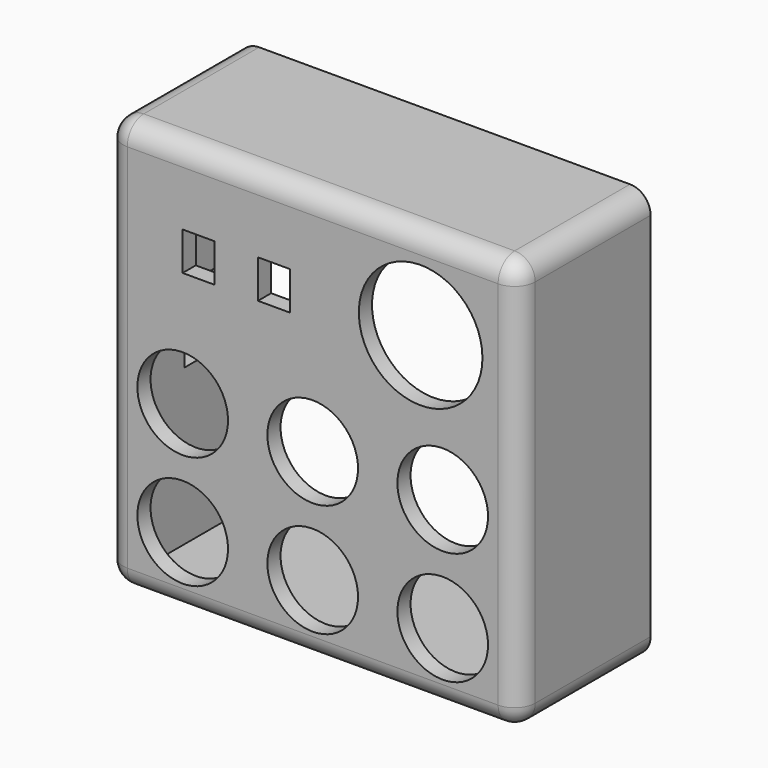
from build123d import *

# Parameters (mm, degrees)
F0_W      = 100
F0_H      = 100
F0_R      = 11
F0_R_2    = 15
F1_DEPTH  = 40
F2_W      = 89.999996
F2_H      = 92
F3_DEPTH  = 36
F4_W      = 7.8
F4_H      = 9.3
F5_DEPTH  = 25
F6_R      = 5
F7_R      = 5
F8_R      = 5
F9_W      = 9.469847
F9_H      = 17.487352
F10_DEPTH = 25


with BuildPart() as f1:
    # F0 (on Front) → F1 (new body)
    with BuildSketch(Plane.XZ):
        Rectangle(F0_W, F0_H)
        with Locations((-31.548171, -32.950651)):
            Circle(F0_R, mode=Mode.SUBTRACT)
        with Locations((-31.548173, -5.504166)):
            Circle(F0_R, mode=Mode.SUBTRACT)
        with Locations((-3e-06, -5.504166)):
            Circle(F0_R, mode=Mode.SUBTRACT)
        with Locations((0, -32.950651)):
            Circle(F0_R, mode=Mode.SUBTRACT)
        with Locations((31.548171, -32.950651)):
            Circle(F0_R, mode=Mode.SUBTRACT)
        with Locations((31.548168, -5.504166)):
            Circle(F0_R, mode=Mode.SUBTRACT)
        with Locations((26.192216, 27.900403)):
            Circle(F0_R_2, mode=Mode.SUBTRACT)
    extrude(amount=F1_DEPTH)

    # F2 (on face) → F3 (cut)
    with BuildSketch(Plane(origin=(0, 0, 0), x_dir=(-1, 0, 0), z_dir=(0, 1, 0))):
        with Locations((-0.403937, -0.61572)):
            Rectangle(F2_W, F2_H)
    extrude(amount=-F3_DEPTH, mode=Mode.SUBTRACT)

    # F4 (on face) → F5 (cut)
    with BuildSketch(Plane.XZ.offset(40)):
        with Locations((-9.38255, 27.058275)):
            Rectangle(F4_W, F4_H)
        with Locations((-27.672551, 27.058275)):
            Rectangle(F4_W, F4_H)
    extrude(amount=-F5_DEPTH, mode=Mode.SUBTRACT)

    # F6
    f6_edges = [f1.edges().sort_by_distance(p)[0] for p in [
        (50, -40, 0),
    ]]
    fillet(f6_edges, radius=F6_R)

    # F7
    f7_edges = [f1.edges().sort_by_distance(p)[0] for p in [
        (-50, -40, 0),
    ]]
    fillet(f7_edges, radius=F7_R)

    # F8
    f8_edges = [f1.edges().sort_by_distance(p)[0] for p in [
        (0, -40, -50),
        (0, -40, 50),
    ]]
    fillet(f8_edges, radius=F8_R)

    # F9 (on face) → F10 (cut)
    with BuildSketch(Plane(origin=(-50, 0, 0), x_dir=(0, -1, 0), z_dir=(-1, 0, 0))):
        with Locations((18.386893, -0.142781)):
            Rectangle(F9_W, F9_H)
    extrude(amount=-F10_DEPTH, mode=Mode.SUBTRACT)


solid = f1.part
